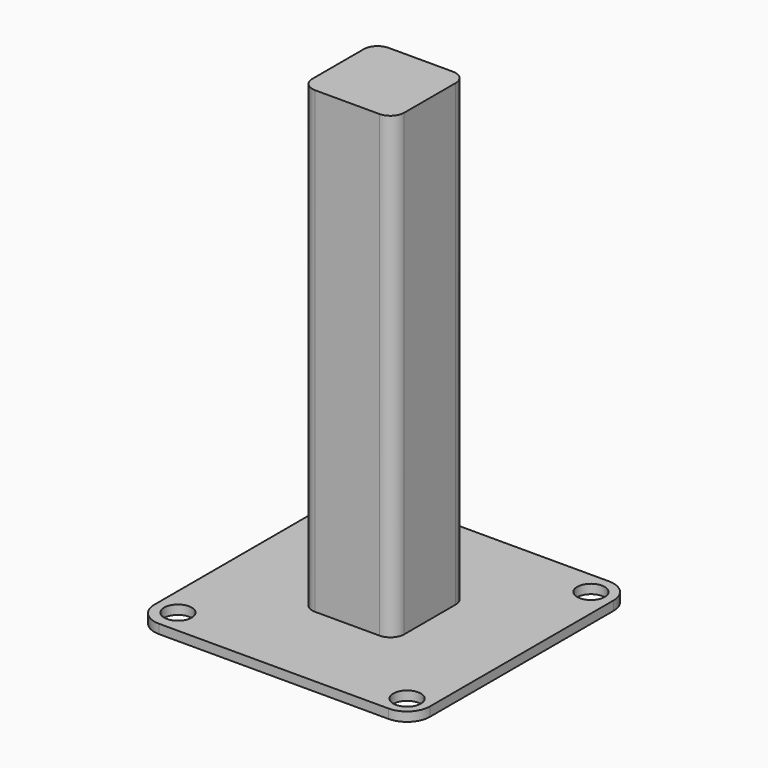
from build123d import *

# Parameters (mm, degrees)
SKETCH007_W    = 20
SKETCH007_H    = 20
PAD004_DEPTH   = 100
FILLET016_R    = 3
FILLET017_R    = 3
SKETCH006_W    = 60
SKETCH006_H    = 60
PAD005_DEPTH   = 2
FILLET019_R    = 5
FILLET015_R    = 5
FILLET014_R    = 5
FILLET018_R    = 5
SKETCH005_R    = 3
HOLE001_DEPTH  = 25
HOLE001_TIPS_R = 3


with BuildPart() as part:
    # Sketch007 → Pad004 (new body)
    with BuildSketch(Plane.XY):
        with Locations((10, -10)):
            Rectangle(SKETCH007_W, SKETCH007_H)
    extrude(amount=PAD004_DEPTH)

    # Fillet016
    fillet016_edges = [part.edges().sort_by_distance(p)[0] for p in [
        (0, -20, 50),
        (20, 0, 50),
        (0, 0, 50),
    ]]
    fillet(fillet016_edges, radius=FILLET016_R)

    # Fillet017
    fillet017_edges = [part.edges().sort_by_distance(p)[0] for p in [
        (20, -20, 50),
    ]]
    fillet(fillet017_edges, radius=FILLET017_R)

    # Sketch006 (on Face1 of Fillet017) → Pad005 (join)
    with BuildSketch(Plane(origin=(0, 0, 0), x_dir=(1, 0, 0), z_dir=(0, 0, -1))):
        with Locations((10, 10)):
            Rectangle(SKETCH006_W, SKETCH006_H)
    extrude(amount=PAD005_DEPTH)

    # Fillet019
    fillet019_edges = [part.edges().sort_by_distance(p)[0] for p in [
        (-20, 20, -1),
    ]]
    fillet(fillet019_edges, radius=FILLET019_R)

    # Fillet015
    fillet015_edges = [part.edges().sort_by_distance(p)[0] for p in [
        (40, 20, -1),
    ]]
    fillet(fillet015_edges, radius=FILLET015_R)

    # Fillet014
    fillet014_edges = [part.edges().sort_by_distance(p)[0] for p in [
        (-20, -40, -1),
    ]]
    fillet(fillet014_edges, radius=FILLET014_R)

    # Fillet018
    fillet018_edges = [part.edges().sort_by_distance(p)[0] for p in [
        (40, -40, -1),
    ]]
    fillet(fillet018_edges, radius=FILLET018_R)

    # Sketch005 (on Face18 of Fillet018) → Hole001 (cut)
    with BuildSketch(Plane(origin=(0, 0, -2), x_dir=(1, 0, 0), z_dir=(0, 0, -1))):
        with Locations((-14.665156, -15.297529)):
            Circle(SKETCH005_R)
        with Locations((35.039818, -15.044578)):
            Circle(SKETCH005_R)
        with Locations((35.166283, 35.166294)):
            Circle(SKETCH005_R)
        with Locations((-15.044579, 34.786861)):
            Circle(SKETCH005_R)
    extrude(amount=-HOLE001_DEPTH, mode=Mode.SUBTRACT)

    # Hole001 tips → Hole001 tip 1 section 0
    with BuildSketch(Plane(origin=(0, 0, 23), x_dir=(1, 0, 0), z_dir=(0, 0, -1)), mode=Mode.PRIVATE) as hole001_tip_1_s0:
        with Locations((-14.665156, -15.297529)):
            Circle(HOLE001_TIPS_R)
    loft([hole001_tip_1_s0.sketch, Vertex(-14.665156, 15.297529, 24.802582)], mode=Mode.SUBTRACT)

    # Hole001 tips → Hole001 tip 2 section 0
    with BuildSketch(Plane(origin=(0, 0, 23), x_dir=(1, 0, 0), z_dir=(0, 0, -1)), mode=Mode.PRIVATE) as hole001_tip_2_s0:
        with Locations((35.039818, -15.044578)):
            Circle(HOLE001_TIPS_R)
    loft([hole001_tip_2_s0.sketch, Vertex(35.039818, 15.044578, 24.802582)], mode=Mode.SUBTRACT)

    # Hole001 tips → Hole001 tip 3 section 0
    with BuildSketch(Plane(origin=(0, 0, 23), x_dir=(1, 0, 0), z_dir=(0, 0, -1)), mode=Mode.PRIVATE) as hole001_tip_3_s0:
        with Locations((35.166283, 35.166294)):
            Circle(HOLE001_TIPS_R)
    loft([hole001_tip_3_s0.sketch, Vertex(35.166283, -35.166294, 24.802582)], mode=Mode.SUBTRACT)

    # Hole001 tips → Hole001 tip 4 section 0
    with BuildSketch(Plane(origin=(0, 0, 23), x_dir=(1, 0, 0), z_dir=(0, 0, -1)), mode=Mode.PRIVATE) as hole001_tip_4_s0:
        with Locations((-15.044579, 34.786861)):
            Circle(HOLE001_TIPS_R)
    loft([hole001_tip_4_s0.sketch, Vertex(-15.044579, -34.786861, 24.802582)], mode=Mode.SUBTRACT)


with BuildPart() as part_1:
    # Body003 placement: moved
    add(part.part.moved(Location((103, -56, -116))))


solid = part_1.part
